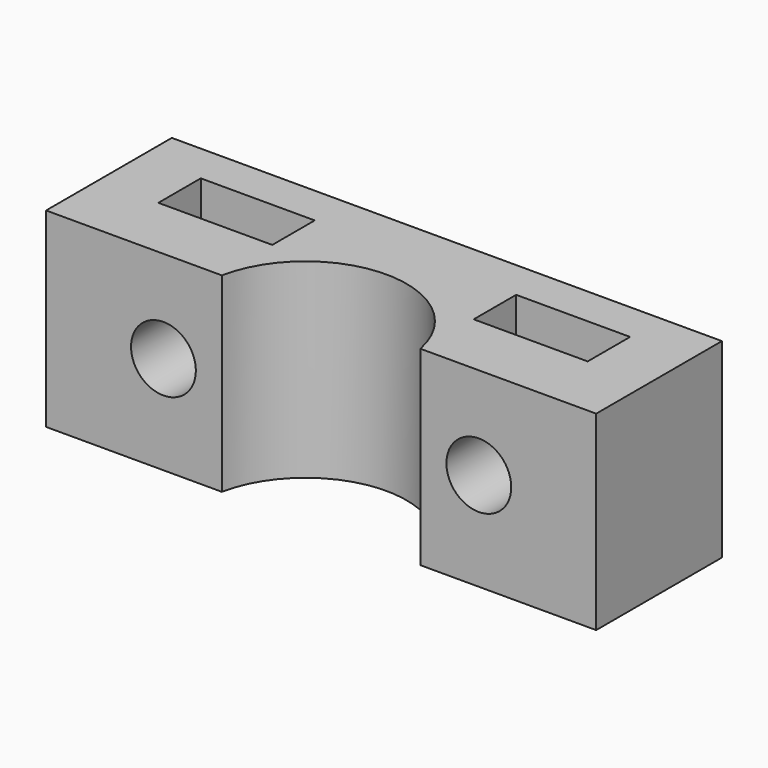
from build123d import *

# Parameters (mm, degrees)
PAD016_DEPTH         = 9.7
SKETCH041_R          = 1.65
POCKET014_DEPTH      = 0.001
POCKET014_DEPTH_BACK = 8.501
SKETCH042_W          = 5.8
SKETCH042_H          = 2.7
POCKET015_DEPTH      = 8.3


with BuildPart() as part:
    # Sketch040 → Pad016 (new body)
    with BuildSketch(Plane.XY):
        with BuildLine():
            ThreePointArc((5.05198, -8.5), (0, -4.35), (-5.05198, -8.5))
            Line((-14, -8.5), (-5.05198, -8.5))
            Line((-14, -0.5), (-14, -8.5))
            Line((-14, -0.5), (14, -0.5))
            Line((14, -0.5), (14, -8.5))
            Line((14, -8.5), (5.05198, -8.5))
        make_face()
    extrude(amount=PAD016_DEPTH)

    # Sketch041 → Pocket014 (cut, two sides)
    with BuildSketch(Plane.XZ) as pocket014_sk:
        with Locations((-8.02599, 5)):
            Circle(SKETCH041_R)
        with Locations((8.02599, 5)):
            Circle(SKETCH041_R)
    extrude(amount=-POCKET014_DEPTH, mode=Mode.SUBTRACT)
    extrude(pocket014_sk.sketch, amount=POCKET014_DEPTH_BACK, mode=Mode.SUBTRACT)

    # Sketch042 (on Face4 of Pocket014) → Pocket015 (cut)
    with BuildSketch(Plane.XY.offset(9.7)):
        with Locations((-8.02599, -3.85)):
            Rectangle(SKETCH042_W, SKETCH042_H)
    pocket015 = extrude(amount=-POCKET015_DEPTH, mode=Mode.SUBTRACT)

    # Mirrored001: Pocket015 across Sketch042 V_Axis
    add(pocket015.mirror(Plane(origin=(0, 0, 9.7), x_dir=(0, 0, 1), z_dir=(1, 0, 0))), mode=Mode.SUBTRACT)


solid = part.part
